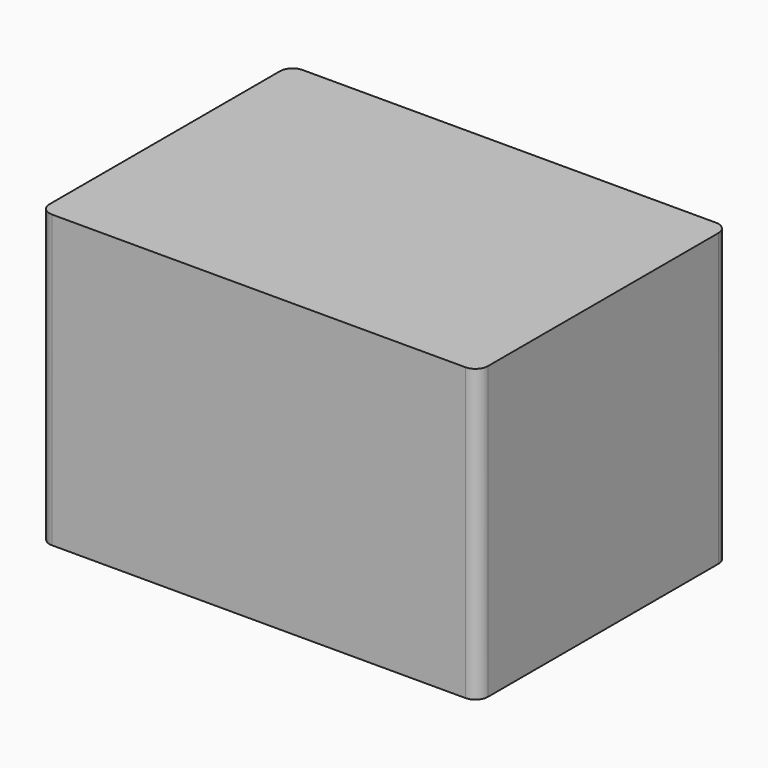
from build123d import *

# Parameters (mm, degrees)
F1_DEPTH = 45
F3_DEPTH = 1.5


with BuildPart() as f1:
    # F0 (on Top) → F1 (new body)
    with BuildSketch(Plane.XY):
        with BuildLine():
            Line((-33, -25), (33, -25))
            ThreePointArc((33, -25), (34.414214, -24.414214), (35, -23))
            Line((35, -23), (35, 23))
            ThreePointArc((35, 23), (34.414214, 24.414214), (33, 25))
            Line((33, 25), (-33, 25))
            ThreePointArc((-33, 25), (-34.414214, 24.414214), (-35, 23))
            Line((-35, 23), (-35, -23))
            ThreePointArc((-35, -23), (-34.414214, -24.414214), (-33, -25))
        make_face()
        with BuildLine():
            Line((-31.2, 23.2), (31.2, 23.2))
            ThreePointArc((31.2, 23.2), (32.614214, 22.614214), (33.2, 21.2))
            Line((33.2, 21.2), (33.2, -21.2))
            ThreePointArc((33.2, -21.2), (32.614214, -22.614214), (31.2, -23.2))
            Line((31.2, -23.2), (-31.2, -23.2))
            ThreePointArc((-31.2, -23.2), (-32.614214, -22.614214), (-33.2, -21.2))
            Line((-33.2, -21.2), (-33.2, 21.2))
            ThreePointArc((-33.2, 21.2), (-32.614214, 22.614214), (-31.2, 23.2))
        make_face(mode=Mode.SUBTRACT)
    extrude(amount=F1_DEPTH)

    # F2 (on face) → F3 (join)
    with BuildSketch(Plane.XY.offset(45)):
        with BuildLine():
            ThreePointArc((35, 23), (34.414214, 24.414214), (33, 25))
            Line((33, 25), (-33, 25))
            ThreePointArc((-33, 25), (-34.414214, 24.414214), (-35, 23))
            Line((-35, 23), (-35, -23))
            ThreePointArc((-35, -23), (-34.414214, -24.414214), (-33, -25))
            Line((-33, -25), (33, -25))
            ThreePointArc((33, -25), (34.414214, -24.414214), (35, -23))
            Line((35, -23), (35, 23))
        make_face()
    extrude(amount=F3_DEPTH)


solid = f1.part
